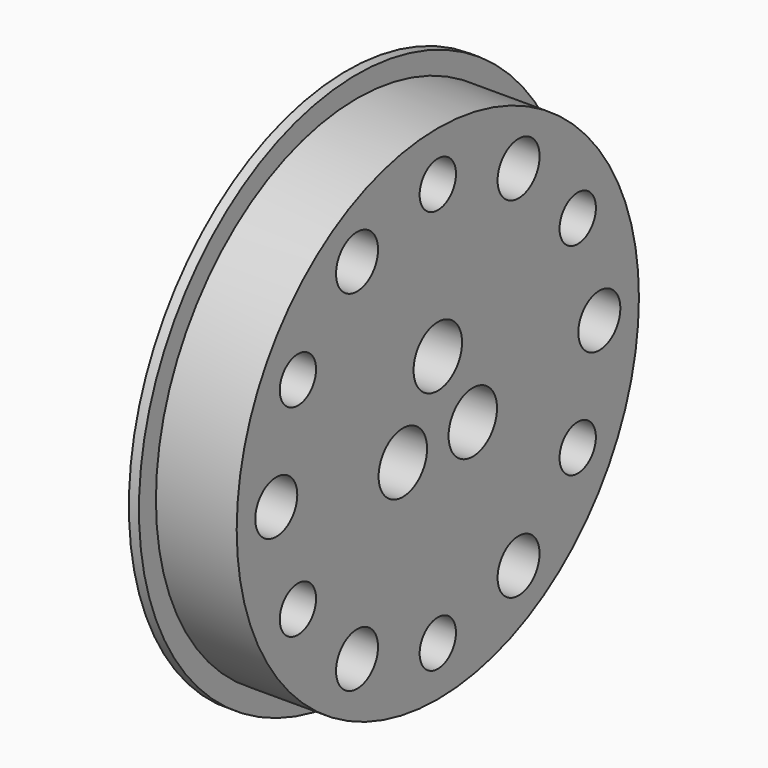
from build123d import *

# Parameters (mm, degrees)
SKETCH020_R     = 27
SKETCH020_R_2   = 1.5
SKETCH020_R_3   = 2.25
SKETCH020_R_4   = 2.6
PAD017_DEPTH    = 9
SKETCH021_R     = 30
SKETCH021_R_2   = 24.9
POCKET003_DEPTH = 8
SKETCH022_R     = 3
POCKET004_DEPTH = 4


with BuildPart() as part:
    # Sketch020 → Pad017 (new body)
    with BuildSketch(Plane.YZ):
        Circle(SKETCH020_R)
        with Locations((0, 5)):
            Circle(SKETCH020_R_2, mode=Mode.SUBTRACT)
        with Locations((-4.330127, -2.5)):
            Circle(SKETCH020_R_2, mode=Mode.SUBTRACT)
        with Locations((4.330127, -2.5)):
            Circle(SKETCH020_R_2, mode=Mode.SUBTRACT)
        with Locations((0, 20)):
            Circle(SKETCH020_R_3, mode=Mode.SUBTRACT)
        with Locations((0, -20)):
            Circle(SKETCH020_R_3, mode=Mode.SUBTRACT)
        with Locations((17.320508, -10)):
            Circle(SKETCH020_R_3, mode=Mode.SUBTRACT)
        with Locations((-17.320508, -10)):
            Circle(SKETCH020_R_3, mode=Mode.SUBTRACT)
        with Locations((-17.320508, 10)):
            Circle(SKETCH020_R_3, mode=Mode.SUBTRACT)
        with Locations((17.320508, 10)):
            Circle(SKETCH020_R_3, mode=Mode.SUBTRACT)
        with Locations((20, 0)):
            Circle(SKETCH020_R_4, mode=Mode.SUBTRACT)
        with Locations((-20, 0)):
            Circle(SKETCH020_R_4, mode=Mode.SUBTRACT)
        with Locations((-10, -17.320508)):
            Circle(SKETCH020_R_4, mode=Mode.SUBTRACT)
        with Locations((10, -17.320508)):
            Circle(SKETCH020_R_4, mode=Mode.SUBTRACT)
        with Locations((10, 17.320508)):
            Circle(SKETCH020_R_4, mode=Mode.SUBTRACT)
        with Locations((-10, 17.320508)):
            Circle(SKETCH020_R_4, mode=Mode.SUBTRACT)
    extrude(amount=PAD017_DEPTH)

    # Sketch021 (on DatumPlane) → Pocket003 (cut)
    with BuildSketch(Plane.YZ.offset(9)):
        Circle(SKETCH021_R)
        Circle(SKETCH021_R_2, mode=Mode.SUBTRACT)
    extrude(amount=-POCKET003_DEPTH, mode=Mode.SUBTRACT)

    # Sketch022 (on DatumPlane) → Pocket004 (cut)
    with BuildSketch(Plane.YZ.offset(9)):
        with Locations((0, 5)):
            Circle(SKETCH022_R)
        with Locations((4.330127, -2.5)):
            Circle(SKETCH022_R)
        with Locations((-4.330127, -2.5)):
            Circle(SKETCH022_R)
    extrude(amount=-POCKET004_DEPTH, mode=Mode.SUBTRACT)


solid = part.part
